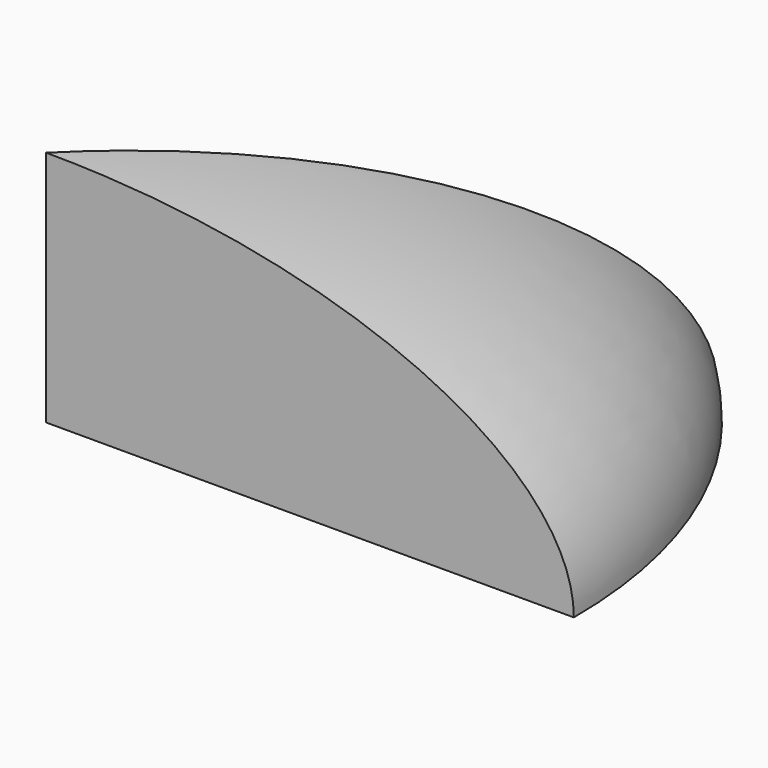
from build123d import *

# Parameters (mm, degrees)
F1_ANGLE = 45


with BuildPart() as f1:
    # F0 (on Front) → F1 (revolve)
    with BuildSketch(Plane.XZ):
        with BuildLine():
            Line((0, 0), (5, 0))
            add(Edge.make_bspline(
                [(5, 0), (5, 2.25), (0, 2.25)],
                knots=[0, 0, 0, 1.5707963268, 1.5707963268, 1.5707963268], degree=2, weights=[1, 0.7071067812, 1]))
            Line((0, 2.25), (0, 0))
        make_face()
    revolve(axis=Axis((0, 0, 1.125), (0, 0, 1)), revolution_arc=F1_ANGLE)


solid = f1.part
